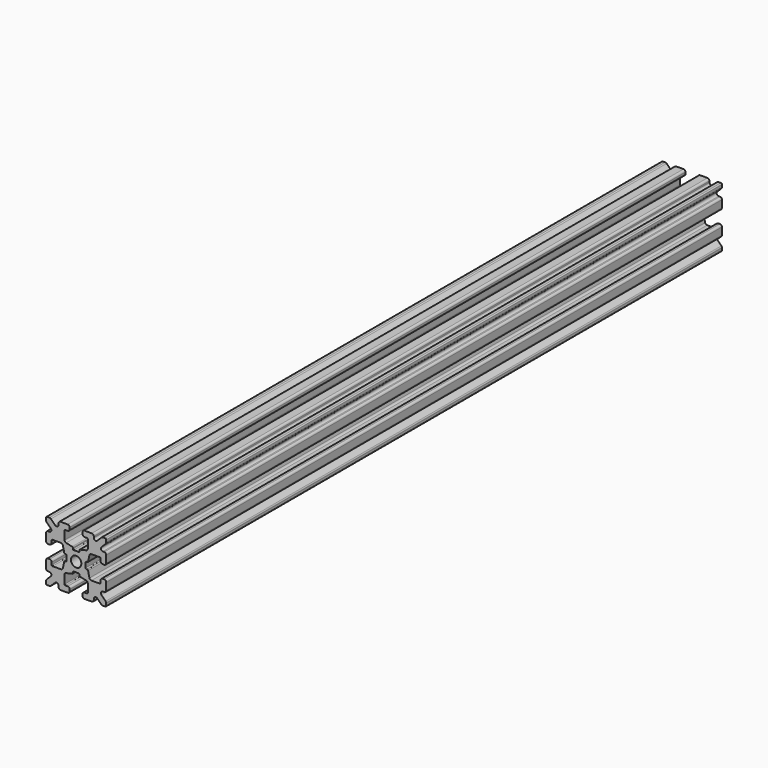
from build123d import *

# Parameters (mm, degrees)
F0_R     = 1.3
F1_DEPTH = 96


with BuildPart() as f1:
    # F0 (on Front) → F1 (new body, symmetric)
    with BuildSketch(Plane.XZ):
        with BuildLine():
            ThreePointArc((0.6255, -2.347065), (0.766921, -2.405643), (0.8255, -2.547065))
            Line((0.8255, -2.547065), (0.8255, -2.774891))
            ThreePointArc((0.8255, -2.774891), (0.869378, -2.899894), (0.981758, -2.970049))
            Line((0.981758, -2.970049), (2.509356, -3.312442))
            ThreePointArc((2.509356, -3.312442), (2.790306, -3.487829), (2.9, -3.800337))
            Line((2.9, -3.800337), (2.9, -5.9))
            ThreePointArc((2.9, -5.9), (2.841421, -6.041421), (2.7, -6.1))
            Line((2.7, -6.1), (2.1, -6.1))
            ThreePointArc((2.1, -6.1), (1.746447, -6.246447), (1.6, -6.6))
            Line((1.6, -6.6), (1.6, -7))
            ThreePointArc((1.6, -7), (1.746447, -7.353553), (2.1, -7.5))
            Line((2.1, -7.5), (3.9, -7.5))
            ThreePointArc((3.9, -7.5), (4.253553, -7.353553), (4.4, -7))
            Line((4.4, -7), (4.4, -6.667767))
            ThreePointArc((4.4, -6.667767), (4.708658, -6.205827), (5.253553, -6.314214))
            Line((5.253553, -6.314214), (6.292893, -7.353553))
            ThreePointArc((6.292893, -7.353553), (6.455105, -7.46194), (6.646447, -7.5))
            Line((6.646447, -7.5), (7.25, -7.5))
            ThreePointArc((7.25, -7.5), (7.426777, -7.426777), (7.5, -7.25))
            Line((7.5, -7.25), (7.5, -6.646447))
            ThreePointArc((7.5, -6.646447), (7.46194, -6.455105), (7.353553, -6.292893))
            Line((7.353553, -6.292893), (6.314214, -5.253553))
            ThreePointArc((6.314214, -5.253553), (6.205827, -4.708658), (6.667767, -4.4))
            Line((6.667767, -4.4), (7, -4.4))
            ThreePointArc((7, -4.4), (7.353553, -4.253553), (7.5, -3.9))
            Line((7.5, -3.9), (7.5, -2.1))
            ThreePointArc((7.5, -2.1), (7.353553, -1.746447), (7, -1.6))
            Line((7, -1.6), (6.6, -1.6))
            ThreePointArc((6.6, -1.6), (6.246447, -1.746447), (6.1, -2.1))
            Line((6.1, -2.1), (6.1, -2.7))
            ThreePointArc((6.1, -2.7), (6.041421, -2.841421), (5.9, -2.9))
            Line((5.9, -2.9), (3.800337, -2.9))
            ThreePointArc((3.800337, -2.9), (3.487829, -2.790306), (3.312442, -2.509356))
            Line((3.312442, -2.509356), (2.970049, -0.981758))
            ThreePointArc((2.970049, -0.981758), (2.899894, -0.869378), (2.774891, -0.8255))
            Line((2.774891, -0.8255), (2.547065, -0.8255))
            ThreePointArc((2.547065, -0.8255), (2.405643, -0.766921), (2.347065, -0.6255))
            Line((2.347065, -0.6255), (2.347065, 0.6255))
            ThreePointArc((2.347065, 0.6255), (2.405643, 0.766921), (2.547065, 0.8255))
            Line((2.547065, 0.8255), (2.774891, 0.8255))
            ThreePointArc((2.774891, 0.8255), (2.899894, 0.869378), (2.970049, 0.981758))
            Line((2.970049, 0.981758), (3.312442, 2.509356))
            ThreePointArc((3.312442, 2.509356), (3.487829, 2.790306), (3.800337, 2.9))
            Line((3.800337, 2.9), (5.9, 2.9))
            ThreePointArc((5.9, 2.9), (6.041421, 2.841421), (6.1, 2.7))
            Line((6.1, 2.7), (6.1, 2.1))
            ThreePointArc((6.1, 2.1), (6.246447, 1.746447), (6.6, 1.6))
            Line((6.6, 1.6), (7, 1.6))
            ThreePointArc((7, 1.6), (7.353553, 1.746447), (7.5, 2.1))
            Line((7.5, 2.1), (7.5, 3.9))
            ThreePointArc((7.5, 3.9), (7.353553, 4.253553), (7, 4.4))
            Line((7, 4.4), (6.667767, 4.4))
            ThreePointArc((6.667767, 4.4), (6.205827, 4.708658), (6.314214, 5.253553))
            Line((6.314214, 5.253553), (7.353553, 6.292893))
            ThreePointArc((7.353553, 6.292893), (7.46194, 6.455105), (7.5, 6.646447))
            Line((7.5, 6.646447), (7.5, 7.25))
            ThreePointArc((7.5, 7.25), (7.426777, 7.426777), (7.25, 7.5))
            Line((7.25, 7.5), (6.646447, 7.5))
            ThreePointArc((6.646447, 7.5), (6.455105, 7.46194), (6.292893, 7.353553))
            Line((6.292893, 7.353553), (5.253553, 6.314214))
            ThreePointArc((5.253553, 6.314214), (4.708658, 6.205827), (4.4, 6.667767))
            Line((4.4, 6.667767), (4.4, 7))
            ThreePointArc((4.4, 7), (4.253553, 7.353553), (3.9, 7.5))
            Line((3.9, 7.5), (2.1, 7.5))
            ThreePointArc((2.1, 7.5), (1.746447, 7.353553), (1.6, 7))
            Line((1.6, 7), (1.6, 6.6))
            ThreePointArc((1.6, 6.6), (1.746447, 6.246447), (2.1, 6.1))
            Line((2.1, 6.1), (2.7, 6.1))
            ThreePointArc((2.7, 6.1), (2.841421, 6.041421), (2.9, 5.9))
            Line((2.9, 5.9), (2.9, 3.800337))
            ThreePointArc((2.9, 3.800337), (2.790306, 3.487829), (2.509356, 3.312442))
            Line((2.509356, 3.312442), (0.981758, 2.970049))
            ThreePointArc((0.981758, 2.970049), (0.869378, 2.899894), (0.8255, 2.774891))
            Line((0.8255, 2.774891), (0.8255, 2.547065))
            ThreePointArc((0.8255, 2.547065), (0.766921, 2.405643), (0.6255, 2.347065))
            Line((0.6255, 2.347065), (-0.6255, 2.347065))
            ThreePointArc((-0.6255, 2.347065), (-0.766921, 2.405643), (-0.8255, 2.547065))
            Line((-0.8255, 2.547065), (-0.8255, 2.774891))
            ThreePointArc((-0.8255, 2.774891), (-0.869378, 2.899894), (-0.981758, 2.970049))
            Line((-0.981758, 2.970049), (-2.509356, 3.312442))
            ThreePointArc((-2.509356, 3.312442), (-2.790306, 3.487829), (-2.9, 3.800337))
            Line((-2.9, 3.800337), (-2.9, 5.9))
            ThreePointArc((-2.9, 5.9), (-2.841421, 6.041421), (-2.7, 6.1))
            Line((-2.7, 6.1), (-2.1, 6.1))
            ThreePointArc((-2.1, 6.1), (-1.746447, 6.246447), (-1.6, 6.6))
            Line((-1.6, 6.6), (-1.6, 7))
            ThreePointArc((-1.6, 7), (-1.746447, 7.353553), (-2.1, 7.5))
            Line((-2.1, 7.5), (-3.9, 7.5))
            ThreePointArc((-3.9, 7.5), (-4.253553, 7.353553), (-4.4, 7))
            Line((-4.4, 7), (-4.4, 6.667767))
            ThreePointArc((-4.4, 6.667767), (-4.708658, 6.205827), (-5.253553, 6.314214))
            Line((-5.253553, 6.314214), (-6.292893, 7.353553))
            ThreePointArc((-6.292893, 7.353553), (-6.455105, 7.46194), (-6.646447, 7.5))
            Line((-6.646447, 7.5), (-7.25, 7.5))
            ThreePointArc((-7.25, 7.5), (-7.426777, 7.426777), (-7.5, 7.25))
            Line((-7.5, 7.25), (-7.5, 6.646447))
            ThreePointArc((-7.5, 6.646447), (-7.46194, 6.455105), (-7.353553, 6.292893))
            Line((-7.353553, 6.292893), (-6.314214, 5.253553))
            ThreePointArc((-6.314214, 5.253553), (-6.205827, 4.708658), (-6.667767, 4.4))
            Line((-6.667767, 4.4), (-7, 4.4))
            ThreePointArc((-7, 4.4), (-7.353553, 4.253553), (-7.5, 3.9))
            Line((-7.5, 3.9), (-7.5, 2.1))
            ThreePointArc((-7.5, 2.1), (-7.353553, 1.746447), (-7, 1.6))
            Line((-7, 1.6), (-6.6, 1.6))
            ThreePointArc((-6.6, 1.6), (-6.246447, 1.746447), (-6.1, 2.1))
            Line((-6.1, 2.1), (-6.1, 2.7))
            ThreePointArc((-6.1, 2.7), (-6.041421, 2.841421), (-5.9, 2.9))
            Line((-5.9, 2.9), (-3.800337, 2.9))
            ThreePointArc((-3.800337, 2.9), (-3.487829, 2.790306), (-3.312442, 2.509356))
            Line((-3.312442, 2.509356), (-2.970049, 0.981758))
            ThreePointArc((-2.970049, 0.981758), (-2.899894, 0.869378), (-2.774891, 0.8255))
            Line((-2.774891, 0.8255), (-2.547065, 0.8255))
            ThreePointArc((-2.547065, 0.8255), (-2.405643, 0.766921), (-2.347065, 0.6255))
            Line((-2.347065, 0.6255), (-2.347065, -0.6255))
            ThreePointArc((-2.347065, -0.6255), (-2.405643, -0.766921), (-2.547065, -0.8255))
            Line((-2.547065, -0.8255), (-2.774891, -0.8255))
            ThreePointArc((-2.774891, -0.8255), (-2.899894, -0.869378), (-2.970049, -0.981758))
            Line((-2.970049, -0.981758), (-3.312442, -2.509356))
            ThreePointArc((-3.312442, -2.509356), (-3.487829, -2.790306), (-3.800337, -2.9))
            Line((-3.800337, -2.9), (-5.9, -2.9))
            ThreePointArc((-5.9, -2.9), (-6.041421, -2.841421), (-6.1, -2.7))
            Line((-6.1, -2.7), (-6.1, -2.1))
            ThreePointArc((-6.1, -2.1), (-6.246447, -1.746447), (-6.6, -1.6))
            Line((-6.6, -1.6), (-7, -1.6))
            ThreePointArc((-7, -1.6), (-7.353553, -1.746447), (-7.5, -2.1))
            Line((-7.5, -2.1), (-7.5, -3.9))
            ThreePointArc((-7.5, -3.9), (-7.353553, -4.253553), (-7, -4.4))
            Line((-7, -4.4), (-6.667767, -4.4))
            ThreePointArc((-6.667767, -4.4), (-6.205827, -4.708658), (-6.314214, -5.253553))
            Line((-6.314214, -5.253553), (-7.353553, -6.292893))
            ThreePointArc((-7.353553, -6.292893), (-7.46194, -6.455105), (-7.5, -6.646447))
            Line((-7.5, -6.646447), (-7.5, -7.25))
            ThreePointArc((-7.5, -7.25), (-7.426777, -7.426777), (-7.25, -7.5))
            Line((-7.25, -7.5), (-6.646447, -7.5))
            ThreePointArc((-6.646447, -7.5), (-6.455105, -7.46194), (-6.292893, -7.353553))
            Line((-6.292893, -7.353553), (-5.253553, -6.314214))
            ThreePointArc((-5.253553, -6.314214), (-4.708658, -6.205827), (-4.4, -6.667767))
            Line((-4.4, -6.667767), (-4.4, -7))
            ThreePointArc((-4.4, -7), (-4.253553, -7.353553), (-3.9, -7.5))
            Line((-3.9, -7.5), (-2.1, -7.5))
            ThreePointArc((-2.1, -7.5), (-1.746447, -7.353553), (-1.6, -7))
            Line((-1.6, -7), (-1.6, -6.6))
            ThreePointArc((-1.6, -6.6), (-1.746447, -6.246447), (-2.1, -6.1))
            Line((-2.1, -6.1), (-2.7, -6.1))
            ThreePointArc((-2.7, -6.1), (-2.841421, -6.041421), (-2.9, -5.9))
            Line((-2.9, -5.9), (-2.9, -3.800337))
            ThreePointArc((-2.9, -3.800337), (-2.790306, -3.487829), (-2.509356, -3.312442))
            Line((-2.509356, -3.312442), (-0.981758, -2.970049))
            ThreePointArc((-0.981758, -2.970049), (-0.869378, -2.899894), (-0.8255, -2.774891))
            Line((-0.8255, -2.774891), (-0.8255, -2.547065))
            ThreePointArc((-0.8255, -2.547065), (-0.766921, -2.405643), (-0.6255, -2.347065))
            Line((-0.6255, -2.347065), (0.6255, -2.347065))
        make_face()
        Circle(F0_R, mode=Mode.SUBTRACT)
    extrude(amount=F1_DEPTH, both=True)


solid = f1.part
